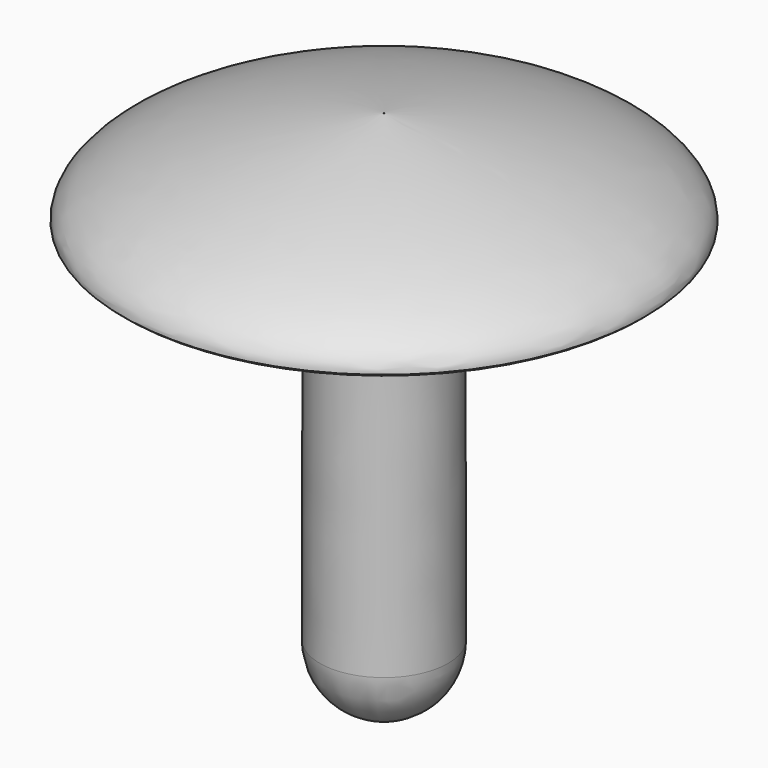
from build123d import *

# Parameters (mm, degrees)
FILLET010_R     = 1
CHAMFER001_SIZE = 0.05


with BuildPart() as part:
    # Sketch008 → Revolution004 (revolve)
    with BuildSketch(Plane.XZ):
        with BuildLine():
            ThreePointArc((0.009527, 58.670137), (0.989046, 59.082133), (1.393083, 60.064962))
            Line((1.393083, 60.064962), (1.384479, 66.827154))
            add(Edge.make_bspline(
                [(1.384479, 66.827154), (1.889645, 67.694688), (2.696406, 68.092912), (5.649794, 68.026093)],
                knots=[0, 0, 0, 0, 1, 1, 1, 1], degree=3))
            add(Edge.make_bspline(
                [(5.649794, 68.026093), (6.001998, 69.492842), (0.009527, 70.135651)],
                knots=[6.261282, 6.261282, 6.261282, 8.015453, 8.015453, 8.015453], degree=2, weights=[1, 0.639395, 1]))
            Line((0.009527, 70.135651), (0.009527, 58.670137))
        make_face()
    revolve(axis=Axis((0, 0, 0), (0, 0, 1)))

    # Fillet010
    fillet010_edges = [part.edges().sort_by_distance(p)[0] for p in [
        (-1.384479, 0, 66.827154),
    ]]
    fillet(fillet010_edges, radius=FILLET010_R)

    # Chamfer001
    chamfer001_edges = [part.edges().sort_by_distance(p)[0] for p in [
        (-5.649794, 0, 68.026093),
    ]]
    chamfer(chamfer001_edges, length=CHAMFER001_SIZE)


solid = part.part
